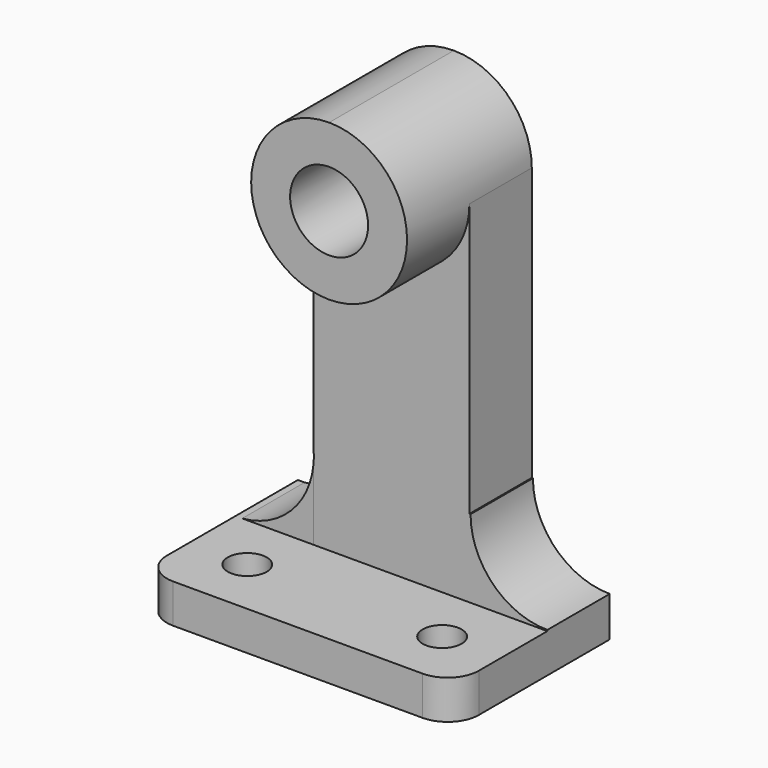
from build123d import *

# Parameters (mm, degrees)
F0_W      = 50.8
F0_H      = 31.75
F1_DEPTH  = 6.35
F2_R      = 3.175
F3_DEPTH  = 25.4
F4_R      = 5.08
F5_W      = 25.4
F5_H      = 12.7
F6_DEPTH  = 69.85
F7_R      = 6.35
F8_DEPTH  = 12.7
F9_DEPTH  = 25.4
F10_W     = 12.7
F10_H     = 12.7
F11_DEPTH = 12.7
F13_DEPTH = 25.4
F14_W     = 12.7
F14_H     = 12.7
F15_DEPTH = 12.7
F17_DEPTH = 25.4


with BuildPart() as f1:
    # F0 (on Top) → F1 (new body)
    with BuildSketch(Plane.XY):
        with Locations((-4.5064515435, 15.875)):
            Rectangle(F0_W, F0_H)
    extrude(amount=F1_DEPTH)

    # F2 (on face) → F3 (cut)
    with BuildSketch(Plane.XY.offset(6.35)):
        with Locations((11.3685484565, 9.525)):
            Circle(F2_R)
        with Locations((-20.3814515435, 9.525)):
            Circle(F2_R)
    extrude(amount=-F3_DEPTH, mode=Mode.SUBTRACT)

    # F4
    f4_edges = [f1.edges().sort_by_distance(p)[0] for p in [
        (20.893548, 0, 3.175),
        (-29.906452, 0, 3.175),
    ]]
    fillet(f4_edges, radius=F4_R)

    # F5 (on face) → F6 (join)
    with BuildSketch(Plane.XY.offset(6.35)):
        with Locations((-4.5064515435, 25.4)):
            Rectangle(F5_W, F5_H)
    extrude(amount=F6_DEPTH)

    # F7 (on face) → F8 (join)
    with BuildSketch(Plane.XZ.offset(-19.05)):
        with BuildLine():
            ThreePointArc((-17.2064515435, 63.5), (-4.5064515435, 50.8), (8.1935484565, 63.5))
            ThreePointArc((8.1935484565, 63.5), (4.473804616, 72.4802560826), (-4.5064514347, 76.2))
            ThreePointArc((-4.5064514347, 76.2), (-13.4867076261, 72.4802561595), (-17.2064515435, 63.5))
        make_face()
        with Locations((-4.5064515435, 63.5)):
            Circle(F7_R, mode=Mode.SUBTRACT)
    extrude(amount=F8_DEPTH)

    # F9 (cut): faces of the model
    f9_faces = [f1.faces().sort_by_distance(p)[0] for p in [
        (5.3567756319, 19.05, 73.3632271754),
        (-14.3696787189, 19.05, 73.3632271754),
        (-4.5064515435, 19.05, 63.5),
    ]]
    extrude(f9_faces, amount=-F9_DEPTH, mode=Mode.SUBTRACT)

    # F10 (on face) → F11 (join)
    with BuildSketch(Plane.YZ.offset(8.1935484565)):
        with Locations((25.4, 12.7)):
            Rectangle(F10_W, F10_H)
    extrude(amount=F11_DEPTH)

    # F12 (on face) → F13 (cut)
    with BuildSketch(Plane.XZ.offset(-19.05)):
        with BuildLine():
            ThreePointArc((33.4102507488, 19.05), (20.8935484565, 31.5667022923), (8.3768461642, 19.05))
            Line((8.3768461642, 19.05), (20.8935484565, 19.05))
            Line((20.8935484565, 19.05), (20.8935484565, 6.5332977077))
            ThreePointArc((20.8935484565, 6.5332977077), (29.7441935255, 10.199354931), (33.4102507488, 19.05))
        make_face()
        with BuildLine():
            Line((20.8935484565, 19.05), (8.3768461642, 19.05))
            ThreePointArc((8.3768461642, 19.05), (12.0429033875, 10.199354931), (20.8935484565, 6.5332977077))
            Line((20.8935484565, 6.5332977077), (20.8935484565, 19.05))
        make_face()
    extrude(amount=-F13_DEPTH, mode=Mode.SUBTRACT)

    # F14 (on face) → F15 (join)
    with BuildSketch(Plane(origin=(-17.2064515435, 0, 0), x_dir=(0, -1, 0), z_dir=(-1, 0, 0))):
        with Locations((-25.4, 12.7)):
            Rectangle(F14_W, F14_H)
    extrude(amount=F15_DEPTH)

    # F16 (on face) → F17 (cut)
    with BuildSketch(Plane.XZ.offset(-19.05)):
        with BuildLine():
            ThreePointArc((-28.8202851524, 6.35), (-20.5172442286, 10.4295276564), (-17.1600890259, 19.05))
            ThreePointArc((-17.1600890259, 19.05), (-17.17168493, 19.5935777111), (-17.2064515435, 20.1361663911))
            Line((-17.2064515435, 20.1361663911), (-17.2064515435, 19.05))
            Line((-17.2064515435, 19.05), (-29.9064515435, 19.05))
            Line((-29.9064515435, 19.05), (-29.9064515435, 6.35))
            Line((-29.9064515435, 6.35), (-28.8202851524, 6.35))
        make_face()
    extrude(amount=-F17_DEPTH, mode=Mode.SUBTRACT)


solid = f1.part
